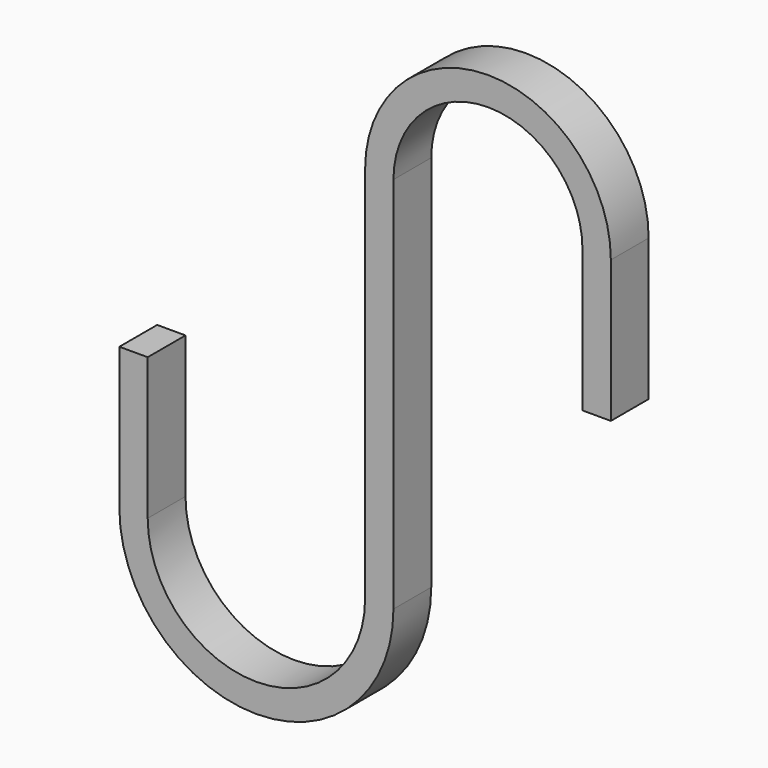
from build123d import *

# Parameters (mm, degrees)
F2_DEPTH = 5


with BuildPart() as f2:
    # F0 (on Front) → F2 (new body)
    with BuildSketch(Plane.XZ):
        with BuildLine():
            Line((23, 20), (23, 5))
            Line((23, 5), (26, 5))
            Line((26, 5), (26, 20))
            ThreePointArc((26, 20), (13, 33), (0, 20))
            Line((0, 20), (0, 0))
            Line((0, 0), (3, 0))
            Line((3, 0), (3, 20))
            ThreePointArc((3, 20), (13, 30), (23, 20))
        make_face()
        with BuildLine():
            Line((3, -20), (3, 0))
            Line((3, 0), (0, 0))
            Line((0, 0), (0, -20))
            ThreePointArc((0, -20), (-11.5, -31.5), (-23, -20))
            Line((-23, -20), (-23, -5))
            Line((-23, -5), (-26, -5))
            Line((-26, -5), (-26, -20))
            ThreePointArc((-26, -20), (-11.5, -34.5), (3, -20))
        make_face()
    extrude(amount=F2_DEPTH)


solid = f2.part
